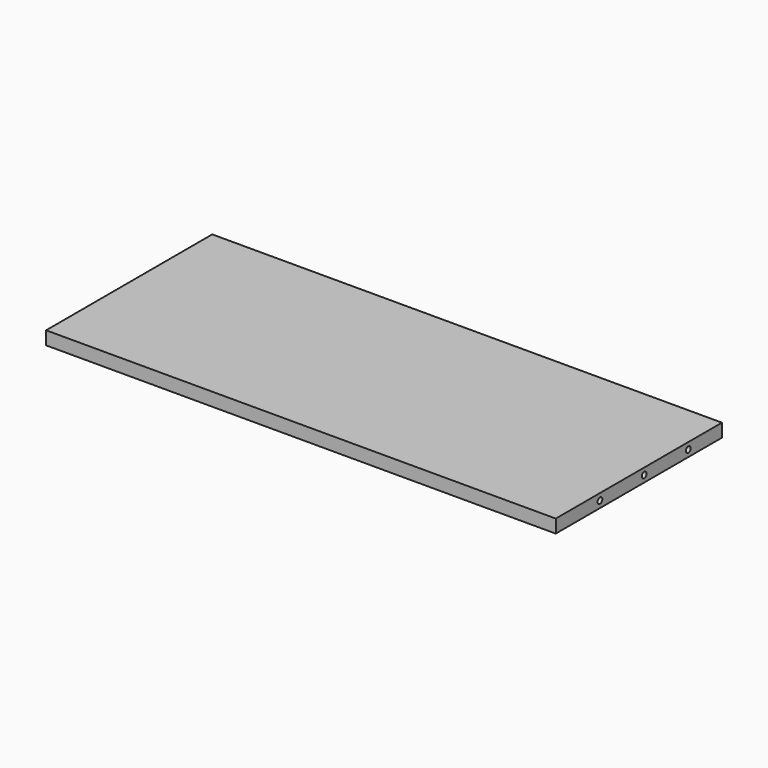
from build123d import *

# Parameters (mm, degrees)
SKETCH067_W     = 692
SKETCH067_H     = 282
PAD025_DEPTH    = 18
SKETCH077_R     = 4
POCKET027_DEPTH = 20
SKETCH078_R     = 4
POCKET028_DEPTH = 20
SKETCH079_R     = 4
POCKET029_DEPTH = 20


with BuildPart() as part:
    # Sketch067 → Pad025 (new body)
    with BuildSketch(Plane.XY):
        with Locations((-355, -159)):
            Rectangle(SKETCH067_W, SKETCH067_H)
    extrude(amount=PAD025_DEPTH)

    # Sketch077 (on Face4 of Pad025) → Pocket027 (cut)
    with BuildSketch(Plane(origin=(-701, 0, 0), x_dir=(0, -1, 0), z_dir=(-1, 0, 0))):
        with Locations((150, 9)):
            Circle(SKETCH077_R)
        with Locations((225, 9)):
            Circle(SKETCH077_R)
        with Locations((75, 9)):
            Circle(SKETCH077_R)
    extrude(amount=-POCKET027_DEPTH, mode=Mode.SUBTRACT)

    # Sketch078 (on Face3 of Pocket027) → Pocket028 (cut)
    with BuildSketch(Plane.YZ.offset(-9)):
        with Locations((-225, 9)):
            Circle(SKETCH078_R)
        with Locations((-150, 9)):
            Circle(SKETCH078_R)
        with Locations((-75, 9)):
            Circle(SKETCH078_R)
    extrude(amount=-POCKET028_DEPTH, mode=Mode.SUBTRACT)

    # Sketch079 (on Face1 of Pocket028) → Pocket029 (cut)
    with BuildSketch(Plane(origin=(0, -18, 0), x_dir=(-1, 0, 0), z_dir=(0, 1, 0))):
        with Locations((182, 9)):
            Circle(SKETCH079_R)
        with Locations((355, 9)):
            Circle(SKETCH079_R)
        with Locations((528, 9)):
            Circle(SKETCH079_R)
    extrude(amount=-POCKET029_DEPTH, mode=Mode.SUBTRACT)


with BuildPart() as part_1:
    # Body018001001001010001003001003001001022 placement: moved
    add(part.part.moved(Location((0, 0, 375))))


with BuildPart() as part_2:
    # Clone015 placement: moved
    add(part_1.part.moved(Location((710, 0, 0))))


solid = part_2.part
